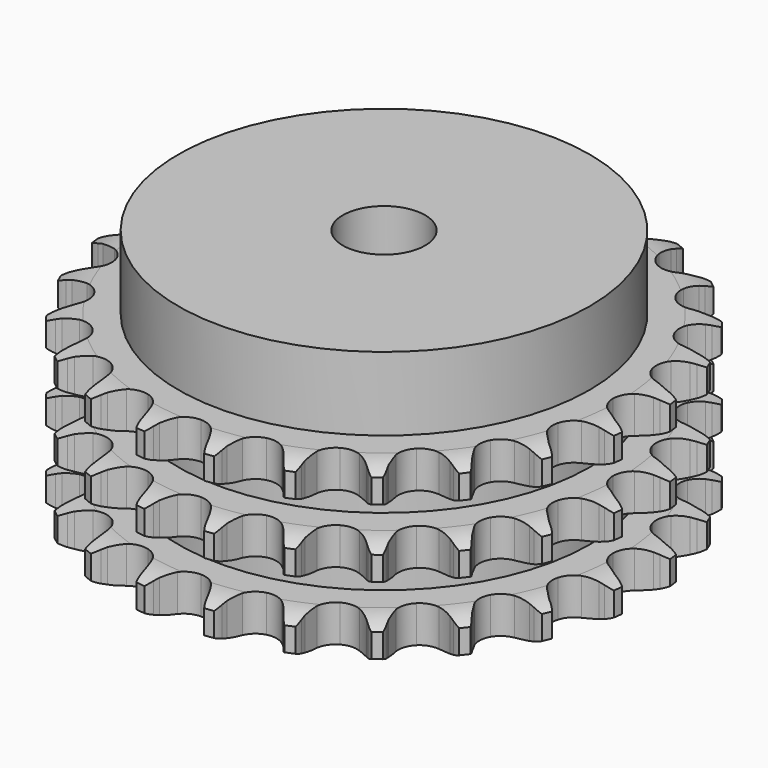
from build123d import *

# Parameters (mm, degrees)
PAD_DEPTH         = 42.1
SKETCH001_R       = 50
PAD001_DEPTH      = 60
SKETCH002_R       = 10
POCKET_DEPTH      = 0.001
POCKET_DEPTH_BACK = 60.001


with BuildPart() as part:
    # Sprocket → Pad (new body)
    with BuildSketch(Plane.XY):
        with BuildLine():
            ThreePointArc((-8.584098, 65.202695), (-7.289998, 63.758844), (-6.364469, 62.055084))
            Line((-6.364469, 62.055084), (-5.871154, 60.823786))
            ThreePointArc((-5.871154, 60.823786), (-5.083491, 59.190791), (-4.080613, 57.680385))
            ThreePointArc((-4.080613, 57.680385), (-2.274912, 56.198485), (0, 55.66805))
            ThreePointArc((0, 55.66805), (2.274912, 56.198485), (4.080613, 57.680385))
            ThreePointArc((4.080613, 57.680385), (5.083491, 59.190791), (5.871154, 60.823786))
            Line((5.871154, 60.823786), (6.364469, 62.055084))
            ThreePointArc((6.364469, 62.055084), (7.289998, 63.758844), (8.584098, 65.202695))
            ThreePointArc((8.584098, 65.202695), (9.460406, 63.473104), (9.913432, 61.587854))
            Line((9.913432, 61.587854), (10.071255, 60.270832))
            ThreePointArc((10.071255, 60.270832), (10.409429, 58.489617), (10.987213, 56.771114))
            ThreePointArc((10.987213, 56.771114), (12.347842, 54.872358), (14.407951, 53.771207))
            ThreePointArc((14.407951, 53.771207), (16.742634, 53.694777), (18.870352, 54.658833))
            Line((18.870352, 54.658833), (21.413454, 57.231699))
            ThreePointArc((21.413454, 57.231699), (21.797776, 57.772472), (22.208643, 58.293362))
            ThreePointArc((22.208643, 58.293362), (23.5436, 59.699524), (25.167301, 60.759239))
            ThreePointArc((25.167301, 60.759239), (25.566099, 58.861777), (25.51575, 56.923514))
            Line((25.51575, 56.923514), (25.327324, 55.610521))
            ThreePointArc((25.327324, 55.610521), (25.192963, 53.802474), (25.306278, 51.992985))
            ThreePointArc((25.306278, 51.992985), (26.129111, 49.806771), (27.834025, 48.209945))
            ThreePointArc((27.834025, 48.209945), (30.069374, 47.531859), (32.374107, 47.912372))
            Line((32.374107, 47.912372), (35.496462, 49.739367))
            ThreePointArc((35.496462, 49.739367), (36.007651, 50.162243), (36.539334, 50.559045))
            ThreePointArc((36.539334, 50.559045), (38.192745, 51.57178), (40.035394, 52.175141))
            ThreePointArc((40.035394, 52.175141), (39.929504, 50.239118), (39.379211, 48.37993))
            Line((39.379211, 48.37993), (38.857379, 47.160445))
            ThreePointArc((38.857379, 47.160445), (38.259639, 45.44878), (37.900762, 43.67162))
            ThreePointArc((37.900762, 43.67162), (38.129724, 41.346935), (39.363255, 39.363255))
            ThreePointArc((39.363255, 39.363255), (41.346935, 38.129724), (43.67162, 37.900762))
            Line((43.67162, 37.900762), (47.160445, 38.857379))
            ThreePointArc((47.160445, 38.857379), (47.763664, 39.13354), (48.37993, 39.379211))
            ThreePointArc((48.37993, 39.379211), (50.239118, 39.929504), (52.175141, 40.035394))
            ThreePointArc((52.175141, 40.035394), (51.57178, 38.192745), (50.559045, 36.539334))
            Line((50.559045, 36.539334), (49.739367, 35.496462))
            ThreePointArc((49.739367, 35.496462), (48.718983, 33.997827), (47.912372, 32.374107))
            ThreePointArc((47.912372, 32.374107), (47.531859, 30.069374), (48.209945, 27.834025))
            ThreePointArc((48.209945, 27.834025), (49.806771, 26.129111), (51.992985, 25.306278))
            Line((51.992985, 25.306278), (55.610521, 25.327324))
            ThreePointArc((55.610521, 25.327324), (56.264662, 25.437951), (56.923514, 25.51575))
            ThreePointArc((56.923514, 25.51575), (58.861777, 25.566099), (60.759239, 25.167301))
            ThreePointArc((60.759239, 25.167301), (59.699524, 23.5436), (58.293362, 22.208643))
            Line((58.293362, 22.208643), (57.231699, 21.413454))
            ThreePointArc((57.231699, 21.413454), (55.858209, 20.229979), (54.658833, 18.870352))
            ThreePointArc((54.658833, 18.870352), (53.694777, 16.742634), (53.771207, 14.407951))
            ThreePointArc((53.771207, 14.407951), (54.872358, 12.347842), (56.771114, 10.987213))
            Line((56.771114, 10.987213), (60.270832, 10.071255))
            ThreePointArc((60.270832, 10.071255), (60.931316, 10.008808), (61.587854, 9.913432))
            ThreePointArc((61.587854, 9.913432), (63.473104, 9.460406), (65.202695, 8.584098))
            ThreePointArc((65.202695, 8.584098), (63.758844, 7.289998), (62.055084, 6.364469))
            Line((62.055084, 6.364469), (60.823786, 5.871154))
            ThreePointArc((60.823786, 5.871154), (59.190791, 5.083491), (57.680385, 4.080613))
            ThreePointArc((57.680385, 4.080613), (56.198485, 2.274912), (55.66805, 0))
            ThreePointArc((55.66805, 0), (56.198485, -2.274912), (57.680385, -4.080613))
            Line((57.680385, -4.080613), (60.823786, -5.871154))
            ThreePointArc((60.823786, -5.871154), (61.445602, -6.102419), (62.055084, -6.364469))
            ThreePointArc((62.055084, -6.364469), (63.758844, -7.289998), (65.202695, -8.584098))
            ThreePointArc((65.202695, -8.584098), (63.473104, -9.460406), (61.587854, -9.913432))
            Line((61.587854, -9.913432), (60.270832, -10.071255))
            ThreePointArc((60.270832, -10.071255), (58.489617, -10.409429), (56.771114, -10.987213))
            ThreePointArc((56.771114, -10.987213), (54.872358, -12.347842), (53.771207, -14.407951))
            ThreePointArc((53.771207, -14.407951), (53.694777, -16.742634), (54.658833, -18.870352))
            Line((54.658833, -18.870352), (57.231699, -21.413454))
            ThreePointArc((57.231699, -21.413454), (57.772472, -21.797776), (58.293362, -22.208643))
            ThreePointArc((58.293362, -22.208643), (59.699524, -23.5436), (60.759239, -25.167301))
            ThreePointArc((60.759239, -25.167301), (58.861777, -25.566099), (56.923514, -25.51575))
            Line((56.923514, -25.51575), (55.610521, -25.327324))
            ThreePointArc((55.610521, -25.327324), (53.802474, -25.192963), (51.992985, -25.306278))
            ThreePointArc((51.992985, -25.306278), (49.806771, -26.129111), (48.209945, -27.834025))
            ThreePointArc((48.209945, -27.834025), (47.531859, -30.069374), (47.912372, -32.374107))
            Line((47.912372, -32.374107), (49.739367, -35.496462))
            ThreePointArc((49.739367, -35.496462), (50.162243, -36.007651), (50.559045, -36.539334))
            ThreePointArc((50.559045, -36.539334), (51.57178, -38.192745), (52.175141, -40.035394))
            ThreePointArc((52.175141, -40.035394), (50.239118, -39.929504), (48.37993, -39.379211))
            Line((48.37993, -39.379211), (47.160445, -38.857379))
            ThreePointArc((47.160445, -38.857379), (45.44878, -38.259639), (43.67162, -37.900762))
            ThreePointArc((43.67162, -37.900762), (41.346935, -38.129724), (39.363255, -39.363255))
            ThreePointArc((39.363255, -39.363255), (38.129724, -41.346935), (37.900762, -43.67162))
            Line((37.900762, -43.67162), (38.857379, -47.160445))
            ThreePointArc((38.857379, -47.160445), (39.13354, -47.763664), (39.379211, -48.37993))
            ThreePointArc((39.379211, -48.37993), (39.929504, -50.239118), (40.035394, -52.175141))
            ThreePointArc((40.035394, -52.175141), (38.192745, -51.57178), (36.539334, -50.559045))
            Line((36.539334, -50.559045), (35.496462, -49.739367))
            ThreePointArc((35.496462, -49.739367), (33.997827, -48.718983), (32.374107, -47.912372))
            ThreePointArc((32.374107, -47.912372), (30.069374, -47.531859), (27.834025, -48.209945))
            ThreePointArc((27.834025, -48.209945), (26.129111, -49.806771), (25.306278, -51.992985))
            Line((25.306278, -51.992985), (25.327324, -55.610521))
            ThreePointArc((25.327324, -55.610521), (25.437951, -56.264662), (25.51575, -56.923514))
            ThreePointArc((25.51575, -56.923514), (25.566099, -58.861777), (25.167301, -60.759239))
            ThreePointArc((25.167301, -60.759239), (23.5436, -59.699524), (22.208643, -58.293362))
            Line((22.208643, -58.293362), (21.413454, -57.231699))
            ThreePointArc((21.413454, -57.231699), (20.229979, -55.858209), (18.870352, -54.658833))
            ThreePointArc((18.870352, -54.658833), (16.742634, -53.694777), (14.407951, -53.771207))
            ThreePointArc((14.407951, -53.771207), (12.347842, -54.872358), (10.987213, -56.771114))
            Line((10.987213, -56.771114), (10.071255, -60.270832))
            ThreePointArc((10.071255, -60.270832), (10.008808, -60.931316), (9.913432, -61.587854))
            ThreePointArc((9.913432, -61.587854), (9.460406, -63.473104), (8.584098, -65.202695))
            ThreePointArc((8.584098, -65.202695), (7.289998, -63.758844), (6.364469, -62.055084))
            Line((6.364469, -62.055084), (5.871154, -60.823786))
            ThreePointArc((5.871154, -60.823786), (5.083491, -59.190791), (4.080613, -57.680385))
            ThreePointArc((4.080613, -57.680385), (2.274912, -56.198485), (0, -55.66805))
            ThreePointArc((0, -55.66805), (-2.274912, -56.198485), (-4.080613, -57.680385))
            Line((-4.080613, -57.680385), (-5.871154, -60.823786))
            ThreePointArc((-5.871154, -60.823786), (-6.102419, -61.445602), (-6.364469, -62.055084))
            ThreePointArc((-6.364469, -62.055084), (-7.289998, -63.758844), (-8.584098, -65.202695))
            ThreePointArc((-8.584098, -65.202695), (-9.460406, -63.473104), (-9.913432, -61.587854))
            Line((-9.913432, -61.587854), (-10.071255, -60.270832))
            ThreePointArc((-10.071255, -60.270832), (-10.409429, -58.489617), (-10.987213, -56.771114))
            ThreePointArc((-10.987213, -56.771114), (-12.347842, -54.872358), (-14.407951, -53.771207))
            ThreePointArc((-14.407951, -53.771207), (-16.742634, -53.694777), (-18.870352, -54.658833))
            Line((-18.870352, -54.658833), (-21.413454, -57.231699))
            ThreePointArc((-21.413454, -57.231699), (-21.797776, -57.772472), (-22.208643, -58.293362))
            ThreePointArc((-22.208643, -58.293362), (-23.5436, -59.699524), (-25.167301, -60.759239))
            ThreePointArc((-25.167301, -60.759239), (-25.566099, -58.861777), (-25.51575, -56.923514))
            Line((-25.51575, -56.923514), (-25.327324, -55.610521))
            ThreePointArc((-25.327324, -55.610521), (-25.192963, -53.802474), (-25.306278, -51.992985))
            ThreePointArc((-25.306278, -51.992985), (-26.129111, -49.806771), (-27.834025, -48.209945))
            ThreePointArc((-27.834025, -48.209945), (-30.069374, -47.531859), (-32.374107, -47.912372))
            Line((-32.374107, -47.912372), (-35.496462, -49.739367))
            ThreePointArc((-35.496462, -49.739367), (-36.007651, -50.162243), (-36.539334, -50.559045))
            ThreePointArc((-36.539334, -50.559045), (-38.192745, -51.57178), (-40.035394, -52.175141))
            ThreePointArc((-40.035394, -52.175141), (-39.929504, -50.239118), (-39.379211, -48.37993))
            Line((-39.379211, -48.37993), (-38.857379, -47.160445))
            ThreePointArc((-38.857379, -47.160445), (-38.259639, -45.44878), (-37.900762, -43.67162))
            ThreePointArc((-37.900762, -43.67162), (-38.129724, -41.346935), (-39.363255, -39.363255))
            ThreePointArc((-39.363255, -39.363255), (-41.346935, -38.129724), (-43.67162, -37.900762))
            Line((-43.67162, -37.900762), (-47.160445, -38.857379))
            ThreePointArc((-47.160445, -38.857379), (-47.763664, -39.13354), (-48.37993, -39.379211))
            ThreePointArc((-48.37993, -39.379211), (-50.239118, -39.929504), (-52.175141, -40.035394))
            ThreePointArc((-52.175141, -40.035394), (-51.57178, -38.192745), (-50.559045, -36.539334))
            Line((-50.559045, -36.539334), (-49.739367, -35.496462))
            ThreePointArc((-49.739367, -35.496462), (-48.718983, -33.997827), (-47.912372, -32.374107))
            ThreePointArc((-47.912372, -32.374107), (-47.531859, -30.069374), (-48.209945, -27.834025))
            ThreePointArc((-48.209945, -27.834025), (-49.806771, -26.129111), (-51.992985, -25.306278))
            Line((-51.992985, -25.306278), (-55.610521, -25.327324))
            ThreePointArc((-55.610521, -25.327324), (-56.264662, -25.437951), (-56.923514, -25.51575))
            ThreePointArc((-56.923514, -25.51575), (-58.861777, -25.566099), (-60.759239, -25.167301))
            ThreePointArc((-60.759239, -25.167301), (-59.699524, -23.5436), (-58.293362, -22.208643))
            Line((-58.293362, -22.208643), (-57.231699, -21.413454))
            ThreePointArc((-57.231699, -21.413454), (-55.858209, -20.229979), (-54.658833, -18.870352))
            ThreePointArc((-54.658833, -18.870352), (-53.694777, -16.742634), (-53.771207, -14.407951))
            ThreePointArc((-53.771207, -14.407951), (-54.872358, -12.347842), (-56.771114, -10.987213))
            Line((-56.771114, -10.987213), (-60.270832, -10.071255))
            ThreePointArc((-60.270832, -10.071255), (-60.931316, -10.008808), (-61.587854, -9.913432))
            ThreePointArc((-61.587854, -9.913432), (-63.473104, -9.460406), (-65.202695, -8.584098))
            ThreePointArc((-65.202695, -8.584098), (-63.758844, -7.289998), (-62.055084, -6.364469))
            Line((-62.055084, -6.364469), (-60.823786, -5.871154))
            ThreePointArc((-60.823786, -5.871154), (-59.190791, -5.083491), (-57.680385, -4.080613))
            ThreePointArc((-57.680385, -4.080613), (-56.198485, -2.274912), (-55.66805, 0))
            ThreePointArc((-55.66805, 0), (-56.198485, 2.274912), (-57.680385, 4.080613))
            Line((-57.680385, 4.080613), (-60.823786, 5.871154))
            ThreePointArc((-60.823786, 5.871154), (-61.445602, 6.102419), (-62.055084, 6.364469))
            ThreePointArc((-62.055084, 6.364469), (-63.758844, 7.289998), (-65.202695, 8.584098))
            ThreePointArc((-65.202695, 8.584098), (-63.473104, 9.460406), (-61.587854, 9.913432))
            Line((-61.587854, 9.913432), (-60.270832, 10.071255))
            ThreePointArc((-60.270832, 10.071255), (-58.489617, 10.409429), (-56.771114, 10.987213))
            ThreePointArc((-56.771114, 10.987213), (-54.872358, 12.347842), (-53.771207, 14.407951))
            ThreePointArc((-53.771207, 14.407951), (-53.694777, 16.742634), (-54.658833, 18.870352))
            Line((-54.658833, 18.870352), (-57.231699, 21.413454))
            ThreePointArc((-57.231699, 21.413454), (-57.772472, 21.797776), (-58.293362, 22.208643))
            ThreePointArc((-58.293362, 22.208643), (-59.699524, 23.5436), (-60.759239, 25.167301))
            ThreePointArc((-60.759239, 25.167301), (-58.861777, 25.566099), (-56.923514, 25.51575))
            Line((-56.923514, 25.51575), (-55.610521, 25.327324))
            ThreePointArc((-55.610521, 25.327324), (-53.802474, 25.192963), (-51.992985, 25.306278))
            ThreePointArc((-51.992985, 25.306278), (-49.806771, 26.129111), (-48.209945, 27.834025))
            ThreePointArc((-48.209945, 27.834025), (-47.531859, 30.069374), (-47.912372, 32.374107))
            Line((-47.912372, 32.374107), (-49.739367, 35.496462))
            ThreePointArc((-49.739367, 35.496462), (-50.162243, 36.007651), (-50.559045, 36.539334))
            ThreePointArc((-50.559045, 36.539334), (-51.57178, 38.192745), (-52.175141, 40.035394))
            ThreePointArc((-52.175141, 40.035394), (-50.239118, 39.929504), (-48.37993, 39.379211))
            Line((-48.37993, 39.379211), (-47.160445, 38.857379))
            ThreePointArc((-47.160445, 38.857379), (-45.44878, 38.259639), (-43.67162, 37.900762))
            ThreePointArc((-43.67162, 37.900762), (-41.346935, 38.129724), (-39.363255, 39.363255))
            ThreePointArc((-39.363255, 39.363255), (-38.129724, 41.346935), (-37.900762, 43.67162))
            Line((-37.900762, 43.67162), (-38.857379, 47.160445))
            ThreePointArc((-38.857379, 47.160445), (-39.13354, 47.763664), (-39.379211, 48.37993))
            ThreePointArc((-39.379211, 48.37993), (-39.929504, 50.239118), (-40.035394, 52.175141))
            ThreePointArc((-40.035394, 52.175141), (-38.192745, 51.57178), (-36.539334, 50.559045))
            Line((-36.539334, 50.559045), (-35.496462, 49.739367))
            ThreePointArc((-35.496462, 49.739367), (-33.997827, 48.718983), (-32.374107, 47.912372))
            ThreePointArc((-32.374107, 47.912372), (-30.069374, 47.531859), (-27.834025, 48.209945))
            ThreePointArc((-27.834025, 48.209945), (-26.129111, 49.806771), (-25.306278, 51.992985))
            Line((-25.306278, 51.992985), (-25.327324, 55.610521))
            ThreePointArc((-25.327324, 55.610521), (-25.437951, 56.264662), (-25.51575, 56.923514))
            ThreePointArc((-25.51575, 56.923514), (-25.566099, 58.861777), (-25.167301, 60.759239))
            ThreePointArc((-25.167301, 60.759239), (-23.5436, 59.699524), (-22.208643, 58.293362))
            Line((-22.208643, 58.293362), (-21.413454, 57.231699))
            ThreePointArc((-21.413454, 57.231699), (-20.229979, 55.858209), (-18.870352, 54.658833))
            ThreePointArc((-18.870352, 54.658833), (-16.742634, 53.694777), (-14.407951, 53.771207))
            ThreePointArc((-14.407951, 53.771207), (-12.347842, 54.872358), (-10.987213, 56.771114))
            Line((-10.987213, 56.771114), (-10.071255, 60.270832))
            ThreePointArc((-10.071255, 60.270832), (-10.008808, 60.931316), (-9.913432, 61.587854))
            ThreePointArc((-9.913432, 61.587854), (-9.460406, 63.473104), (-8.584098, 65.202695))
        make_face()
    extrude(amount=PAD_DEPTH)

    # Sketch → Groove (revolve, cut)
    with BuildSketch(Plane.XZ):
        with BuildLine():
            ThreePointArc((57.175762, 0), (60.75347, 0.405129), (64.15, 1.6))
            Line((64.15, 1.6), (64.15, 7.4))
            ThreePointArc((64.15, 7.4), (60.75347, 8.594871), (57.175762, 9))
            Line((50, 9), (57.175762, 9))
            Line((50, 9), (50, 16.55))
            Line((50, 16.55), (57.175762, 16.55))
            ThreePointArc((57.175762, 16.55), (60.75347, 16.955129), (64.15, 18.15))
            Line((64.15, 23.95), (64.15, 18.15))
            ThreePointArc((64.15, 23.95), (60.75347, 25.144871), (57.175762, 25.55))
            Line((50, 25.55), (57.175762, 25.55))
            Line((50, 33.1), (50, 25.55))
            Line((57.175762, 33.1), (50, 33.1))
            ThreePointArc((57.175762, 33.1), (60.75347, 33.505129), (64.15, 34.7))
            Line((64.15, 34.7), (64.15, 40.5))
            ThreePointArc((64.15, 40.5), (60.75347, 41.694871), (57.175762, 42.1))
            Line((57.175762, 42.1), (74.15, 42.1))
            Line((74.15, 42.1), (74.15, 0))
            Line((57.175762, 0), (74.15, 0))
        make_face()
    revolve(axis=Axis((0, 0, 0), (0, 0, 1)), mode=Mode.SUBTRACT)

    # Sketch001 → Pad001 (join)
    with BuildSketch(Plane.XY):
        Circle(SKETCH001_R)
    extrude(amount=PAD001_DEPTH)

    # Sketch002 → Pocket (cut, two sides)
    with BuildSketch(Plane.XY) as pocket_sk:
        Circle(SKETCH002_R)
    extrude(amount=-POCKET_DEPTH, mode=Mode.SUBTRACT)
    extrude(pocket_sk.sketch, amount=POCKET_DEPTH_BACK, mode=Mode.SUBTRACT)


solid = part.part
